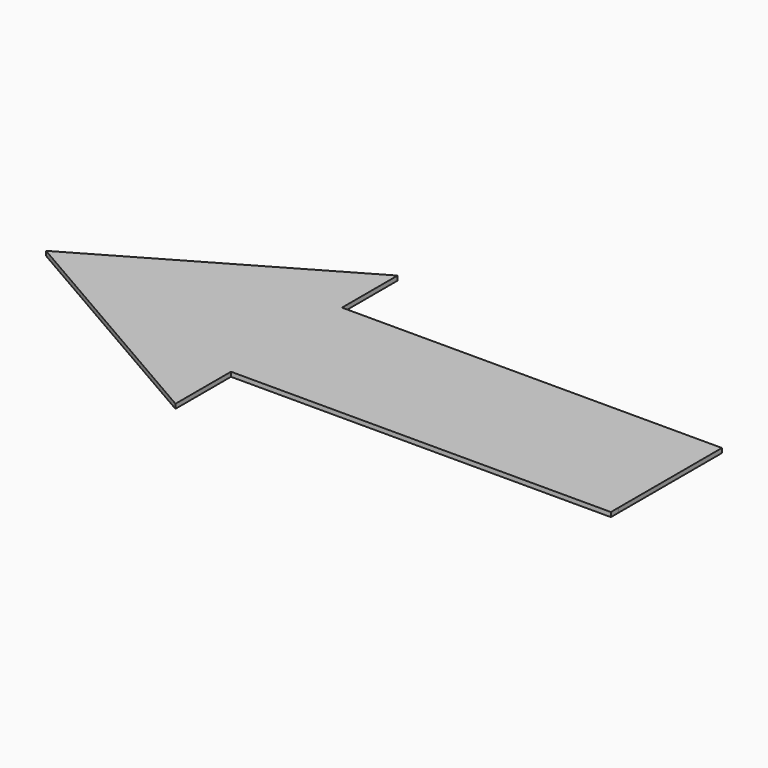
from build123d import *

# Parameters (mm, degrees)
F1_DEPTH = 3
F2_ANGLE = 30


with BuildPart() as f1:
    # F0 (on Top) → F1 (new body)
    with BuildSketch(Plane.XY):
        Polygon((-92.6405740249, -53.4860603511), (92.6405740249, -53.4860603511), (69.4804305186, -13.3715150878), (173.2050807569, 46.5139396489), (289.0674983355, 113.4071376268), (285.7992481602, 119.0679129823), (242.747211323, 193.6362281535), (126.8847937445, 126.7430301756), (23.1601435062, 66.8575754389), (0, 106.9721207023), align=None)
    extrude(amount=F1_DEPTH)


with BuildPart() as f1_1:
    # F2: moved
    add(f1.part.rotate(Axis((92.6405740249, -53.4860603511, 1.5), (0, 0, -1)), F2_ANGLE))


solid = f1_1.part
